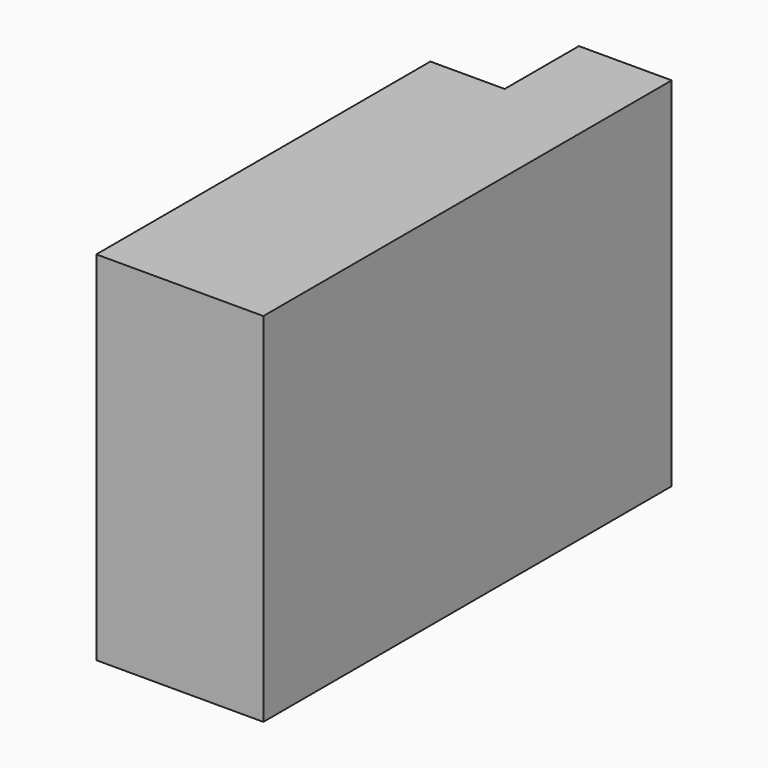
from build123d import *

# Parameters (mm, degrees)
F0_W     = 20
F0_H     = 77
F1_DEPTH = 20
F0_W_2   = 90
F2_DEPTH = 36


with BuildPart() as f1:
    # F0 (on Right) → F1 (new body)
    with BuildSketch(Plane.YZ):
        with Locations((45, 38.5)):
            Rectangle(F0_W, F0_H)
    extrude(amount=-F1_DEPTH)

    # F0 (on Right) → F2 (join)
    with BuildSketch(Plane.YZ):
        with Locations((-10, 38.5)):
            Rectangle(F0_W_2, F0_H)
    extrude(amount=-F2_DEPTH)


solid = f1.part
